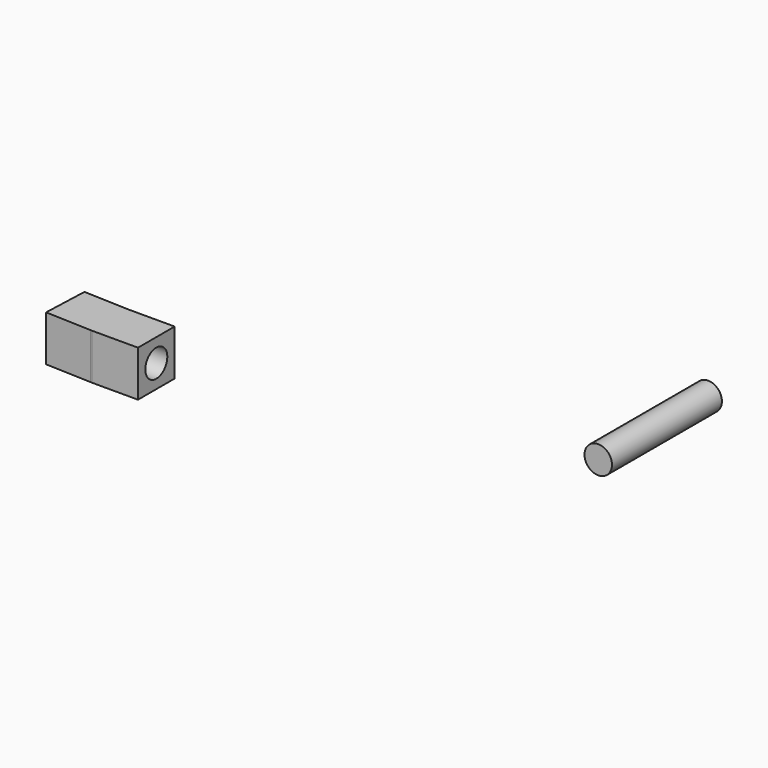
from build123d import *

# Parameters (mm, degrees)
F0_W           = 5
F0_H           = 5
F1_DEPTH       = 5
F4_D           = 3
F4_DEPTH       = 5
F4_TIP         = 0.9012909285
F4_ON_F2_D     = 3
F4_ON_F2_DEPTH = 5
F4_ON_F2_TIP   = 0.9012909285
F5_R           = 1.5
F6_DEPTH       = 15


with BuildPart() as f1:
    # F0 (on Top) → F1 (new body)
    with BuildSketch(Plane.XY):
        with Locations((-2.5, -2.5)):
            Rectangle(F0_W, F0_H)
        Polygon((-5.1962990788, -4.9961451812), (-5, 0), (-9.9961451812, 0.1962990788), (-10.19244426, -4.7998461024), align=None)
        Polygon((-5, -5), (-5, 0), (-5.1962990788, -4.9961451812), align=None)
    extrude(amount=F1_DEPTH)

    # F4
    with Locations(Plane.YZ):
        with Locations((-2.5, 2.5)):
            Hole(F4_D / 2, depth=F4_DEPTH)
            with Locations((0, 0, -(F4_DEPTH + F4_TIP / 2))):  # 118° drill point
                Cone(0, F4_D / 2, F4_TIP, mode=Mode.SUBTRACT)

    # F4 on F2
    with Locations(Plane(origin=(-9.9884385155, 0.3924468181, 0), x_dir=(-0.0392598158, -0.9992290362, 0), z_dir=(-0.9992290362, 0.0392598158, 0))):
        with Locations((2.6962990788, 2.5)):
            Hole(F4_ON_F2_D / 2, depth=F4_ON_F2_DEPTH)
            with Locations((0, 0, -(F4_ON_F2_DEPTH + F4_ON_F2_TIP / 2))):  # 118° drill point
                Cone(0, F4_ON_F2_D / 2, F4_ON_F2_TIP, mode=Mode.SUBTRACT)


with BuildPart() as f6:
    # F5 (on Front) → F6 (new body)
    with BuildSketch(Plane.XZ):
        with Locations((58.2373477519, 17.2383319587)):
            Circle(F5_R)
    extrude(amount=F6_DEPTH)


solid = Compound([f1.part, f6.part])
